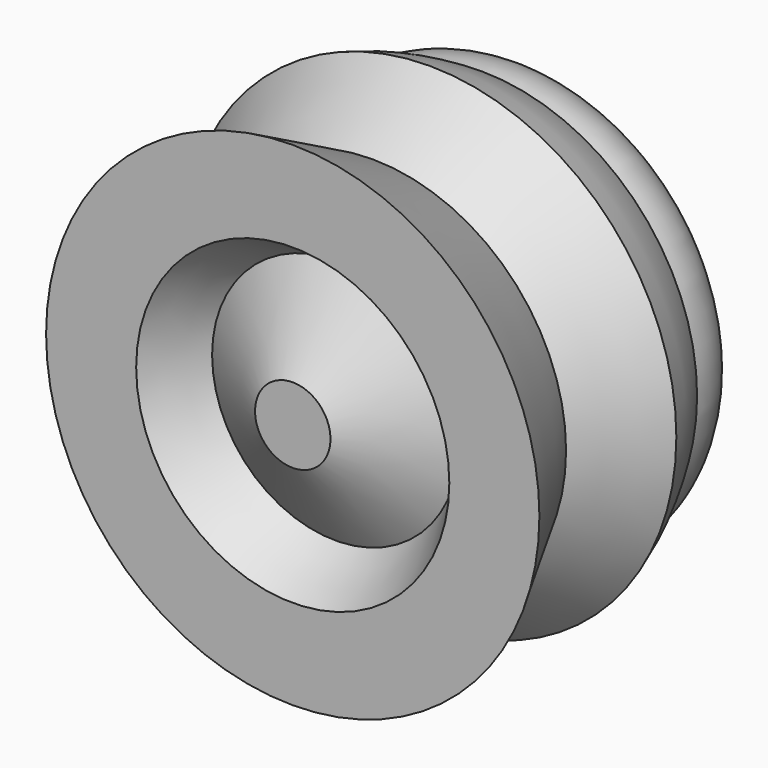
from build123d import *


with BuildPart() as f1:
    # F0 (on Top) → F1 (revolve)
    with BuildSketch(Plane.XY):
        with BuildLine():
            ThreePointArc((-18.994163, 13.121947), (-18.526276, 29.537549), (-32.016402, 20.172325))
            ThreePointArc((-32.016402, 20.172325), (-34.616866, 15.535363), (-36.593492, 10.600104))
            Line((-36.593492, 10.600104), (-28.713267, 0))
            Line((-28.713267, 0), (-36.593492, -14.794178))
            Line((-36.593492, -14.794178), (-23.228711, -14.794178))
            Line((-23.228711, -14.794178), (-18.296746, -6.879023))
            Line((-18.296746, -6.879023), (-5.593964, -14.794178))
            Line((-5.593964, -14.794178), (0, -14.794178))
            Line((0, -14.794178), (0, -7.429056))
            Line((0, -7.429056), (-22.906089, 6.84382))
            Line((-22.906089, 6.84382), (-18.994163, 13.121947))
        make_face()
    revolve(axis=Axis((0, -11.111617, 0), (0, -1, 0)))


solid = f1.part
